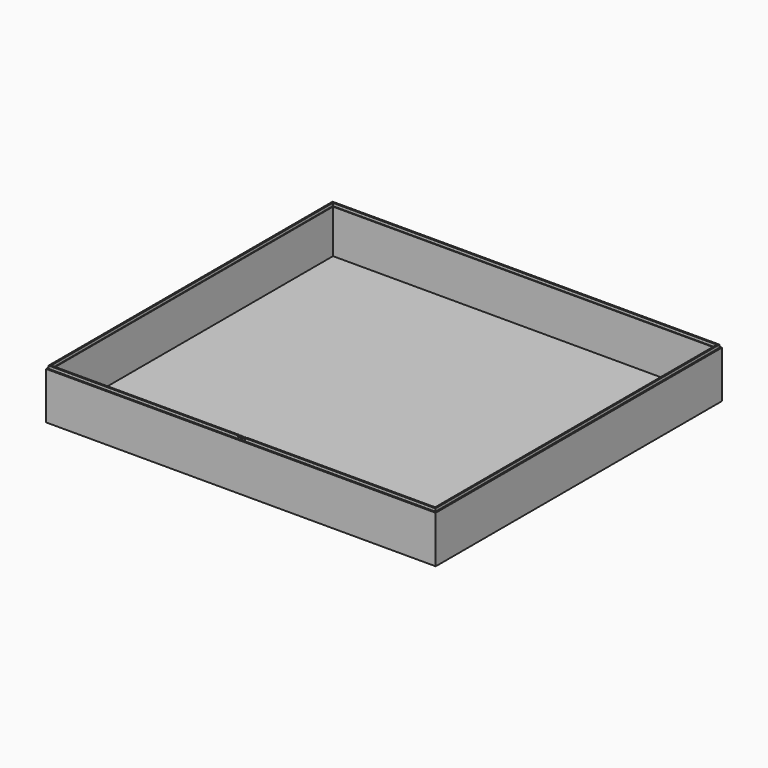
from build123d import *

# Parameters (mm, degrees)
F0_W     = 550
F0_H     = 505
F1_DEPTH = 5
F2_W     = 540
F2_H     = 495
F3_DEPTH = 61.5
F5_DEPTH = 4
F7_DEPTH = 25.4


with BuildPart() as f1:
    # F0 (on Top) → F1 (new body)
    with BuildSketch(Plane.XY):
        Rectangle(F0_W, F0_H)
    extrude(amount=F1_DEPTH)

    # F2 (on face) → F3 (join)
    with BuildSketch(Plane.XY.offset(5)):
        Polygon((-270, -252.5), (275, -252.5), (275, 247.5), (275, 252.5), (270, 252.5), (-275, 252.5), (-275, -247.5), (-275, -252.5), align=None)
        Rectangle(F2_W, F2_H, mode=Mode.SUBTRACT)
    extrude(amount=F3_DEPTH)

    # F4 (on face) → F5 (join)
    with BuildSketch(Plane.XY.offset(66.5)):
        Polygon((273, 250.5), (271, 250.5), (-273, 250.5), (-273, -248.5), (-273, -250.5), (273, -250.5), (273, 248.5), align=None)
        Polygon((-271, -248.5), (-271, -247.5), (-271, 248.5), (270, 248.5), (271, 248.5), (271, 247.5), (271, -248.5), (-270, -248.5), align=None, mode=Mode.SUBTRACT)
    extrude(amount=F5_DEPTH)

    # F6 (on face) → F7 (cut)
    with BuildSketch(Plane.XZ.offset(250.5)):
        with BuildLine():
            Line((4.5, 70.5), (3.5, 70.5))
            Line((3.5, 70.5), (3.5, 69.5))
            ThreePointArc((3.5, 69.5), (4.5, 68.5), (5.5, 69.5))
            Line((5.5, 69.5), (5.5, 70.5))
            Line((5.5, 70.5), (4.5, 70.5))
        make_face()
        with BuildLine():
            Line((1.5, 70.5), (0.5, 70.5))
            Line((0.5, 70.5), (0.5, 69.5))
            ThreePointArc((0.5, 69.5), (1.5, 68.5), (2.5, 69.5))
            Line((2.5, 69.5), (2.5, 70.5))
            Line((2.5, 70.5), (1.5, 70.5))
        make_face()
        with BuildLine():
            Line((-3.5, 69.5), (-3.5, 70.5))
            Line((-3.5, 70.5), (-4.5, 70.5))
            Line((-4.5, 70.5), (-5.5, 70.5))
            Line((-5.5, 70.5), (-5.5, 69.5))
            ThreePointArc((-5.5, 69.5), (-4.5, 68.5), (-3.5, 69.5))
        make_face()
        with BuildLine():
            Line((-0.5, 69.5), (-0.5, 70.5))
            Line((-0.5, 70.5), (-1.5, 70.5))
            Line((-1.5, 70.5), (-2.5, 70.5))
            Line((-2.5, 70.5), (-2.5, 69.5))
            ThreePointArc((-2.5, 69.5), (-1.5, 68.5), (-0.5, 69.5))
        make_face()
    extrude(amount=-F7_DEPTH, mode=Mode.SUBTRACT)


solid = f1.part
